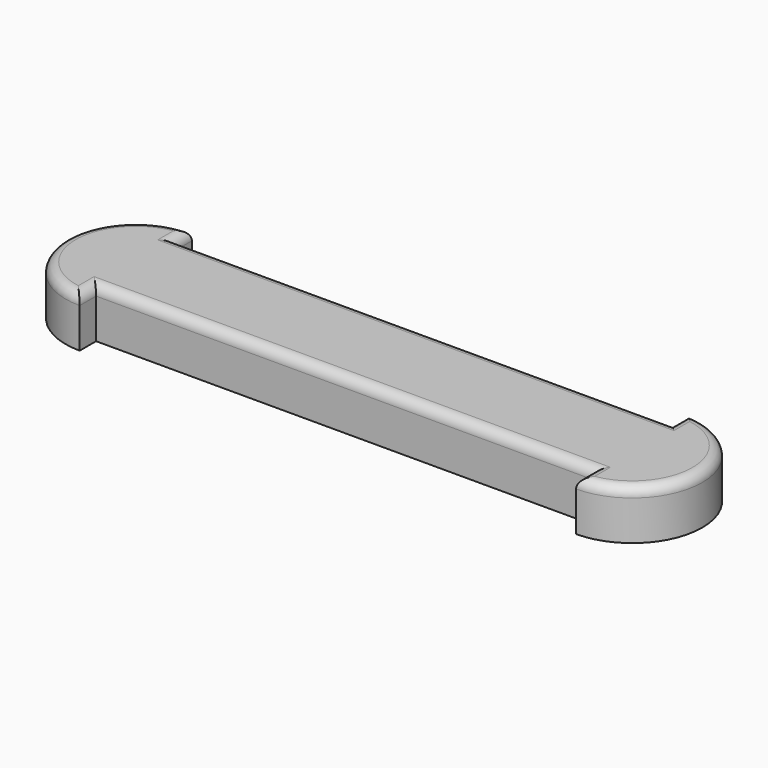
from build123d import *

# Parameters (mm, degrees)
F0_W     = 100
F0_H     = 20
F1_DEPTH = 10
F2_R     = 2


with BuildPart() as f1:
    # F0 (on Top) → F1 (new body)
    with BuildSketch(Plane.XY):
        with BuildLine():
            Line((-45.133696, -16.846582), (-45.133696, 3.153418))
            Line((-45.133696, 3.153418), (-45.133696, 7.283418))
            ThreePointArc((-45.133696, 7.283418), (-59.263696, -6.846582), (-45.133696, -20.976582))
            Line((-45.133696, -20.976582), (-45.133696, -16.846582))
        make_face()
        with Locations((4.866304, -6.846582)):
            Rectangle(F0_W, F0_H)
        with BuildLine():
            Line((54.866304, 7.283418), (54.866304, 3.153418))
            Line((54.866304, 3.153418), (54.866304, -16.846582))
            Line((54.866304, -16.846582), (54.866304, -20.976582))
            ThreePointArc((54.866304, -20.976582), (68.996304, -6.846582), (54.866304, 7.283418))
        make_face()
    extrude(amount=F1_DEPTH)

    # F2
    f2_edges = [f1.edges().sort_by_distance(p)[0] for p in [
        (-45.133696, 5.218418, 10),
        (-45.133696, -18.911582, 10),
        (-59.263696, -6.846582, 10),
        (4.866304, 3.153418, 10),
        (4.866304, -16.846582, 10),
        (68.996304, -6.846582, 10),
        (54.866304, 5.218418, 10),
        (54.866304, -18.911582, 10),
    ]]
    fillet(f2_edges, radius=F2_R)


solid = f1.part
